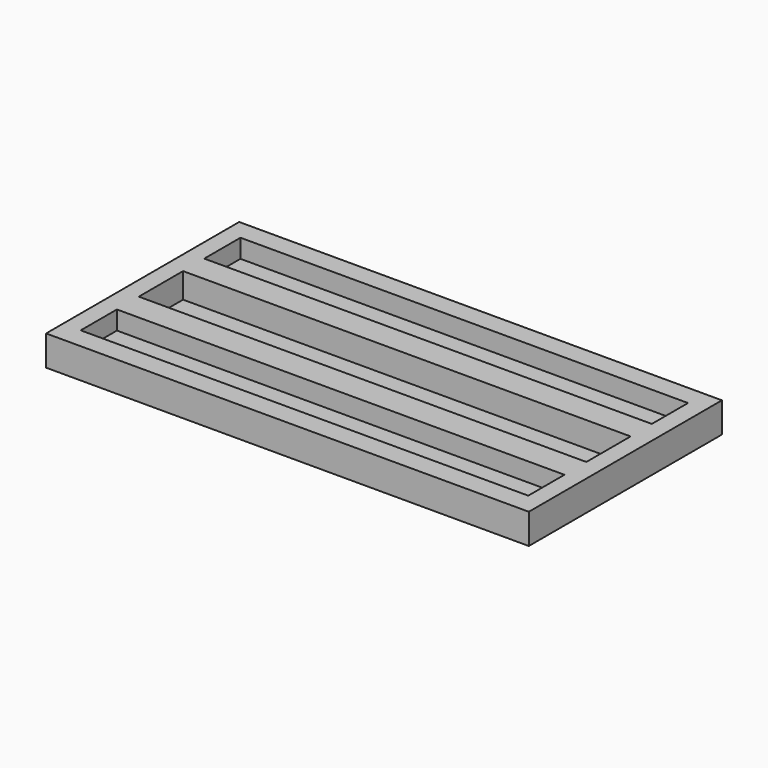
from build123d import *

# Parameters (mm, degrees)
F0_W     = 282.575
F0_H     = 28.575
F1_DEPTH = 7.3152
F0_H_2   = 34.925
F2_DEPTH = 3.175
F0_W_2   = 304.8
F0_H_3   = 152.4
F3_DEPTH = 19.05


with BuildPart() as f1:
    # F0 (on Top) → F1 (new body)
    with BuildSketch(Plane.XY):
        with Locations((13.795514, -89.927282)):
            Rectangle(F0_W, F0_H)
        with Locations((13.508268, 7.946121)):
            Rectangle(F0_W, F0_H)
    extrude(amount=F1_DEPTH)


with BuildPart() as f2:
    # F0 (on Top) → F2 (new body)
    with BuildSketch(Plane.XY):
        with Locations((13.673276, -40.751064)):
            Rectangle(F0_W, F0_H_2)
    extrude(amount=F2_DEPTH)


with BuildPart() as f3:
    # F0 (on Top) → F3 (new body)
    with BuildSketch(Plane.XY):
        with Locations((13.631912, -41.248978)):
            Rectangle(F0_W_2, F0_H_3)
        with Locations((13.795514, -89.927282)):
            Rectangle(F0_W, F0_H, mode=Mode.SUBTRACT)
        with Locations((13.508268, 7.946121)):
            Rectangle(F0_W, F0_H, mode=Mode.SUBTRACT)
        with Locations((13.673276, -40.751064)):
            Rectangle(F0_W, F0_H_2, mode=Mode.SUBTRACT)
    extrude(amount=F3_DEPTH)


solid = Compound([f1.part, f2.part, f3.part])
